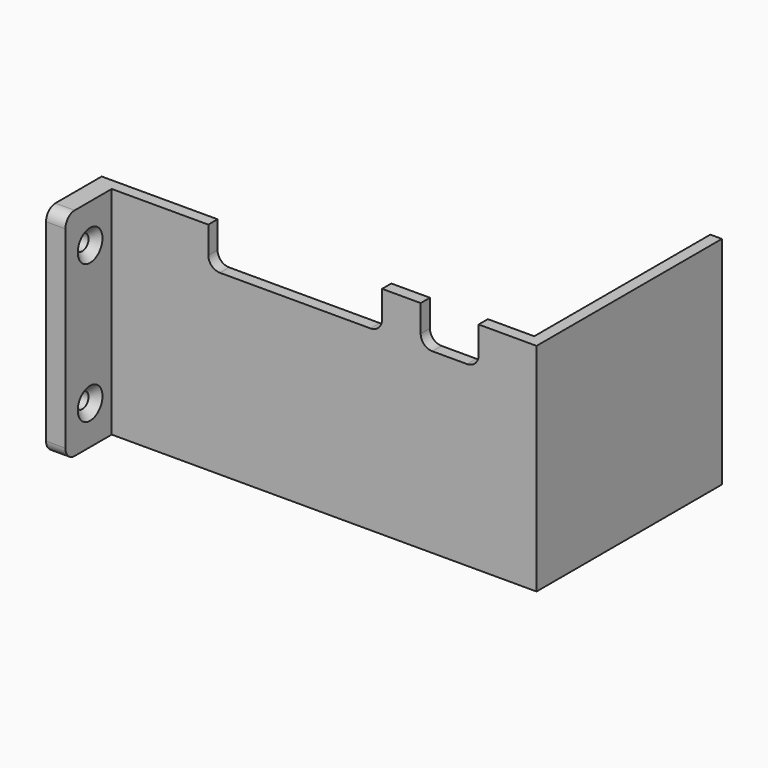
from build123d import *

# Parameters (mm, degrees)
CYLINDER_R            = 2
CYLINDER_DEPTH        = 10
FUSION002_PITCH_ANGLE = 90
FUSION001_PITCH_ANGLE = 90
BOX004_W              = 10
BOX004_H              = 10
BOX004_DEPTH          = 10
BOX003_W              = 70
BOX003_H              = 10
BOX003_DEPTH          = 10
FILLET_R              = 3
BOX001_W              = 112
BOX001_H              = 53
BOX001_DEPTH          = 57
BOX_W                 = 115
BOX_H                 = 56
BOX_DEPTH             = 60
BOX002_W              = 5
BOX002_H              = 56
BOX002_DEPTH          = 15
FILLET001_R           = 3
CUT004_ROLL_ANGLE     = 90


with BuildPart() as cone:
    # Cone → Cone (revolve)
    with BuildSketch(Plane(origin=(0, 0, 10), x_dir=(1, 0, 0), z_dir=(0, -1, 0))):
        Polygon((0, 0), (2, 0), (4, 2), (0, 2), align=None)
    revolve(axis=Axis((0, 0, 10), (0, 0, 1)))


with BuildPart() as cylinder:
    # Cylinder → Cylinder (new body)
    with BuildSketch(Plane.XY):
        Circle(CYLINDER_R)
    extrude(amount=CYLINDER_DEPTH)


with BuildPart() as screw_cutout001:
    # Fusion002 base: copy of Cylinder
    add(cylinder.part)

    # Fusion002: union Cone
    add(cone.part)


with BuildPart() as screw_cutout001_1:
    # Fusion002 pitch: moved
    add(screw_cutout001.part.rotate(Axis((0, 0, 0), (0, 1, 0)), FUSION002_PITCH_ANGLE))


with BuildPart() as screw_cutout001_2:
    # Fusion002 placement: moved
    add(screw_cutout001_1.part.moved(Location((-7, 10, 67))))


with BuildPart() as fusion003:
    # Fusion001 base: copy of Cylinder
    add(cylinder.part)

    # Fusion001: union Cone
    add(cone.part)


with BuildPart() as fusion003_1:
    # Fusion001 pitch: moved
    add(fusion003.part.rotate(Axis((0, 0, 0), (0, 1, 0)), FUSION001_PITCH_ANGLE))


with BuildPart() as fusion003_2:
    # Fusion001 placement: moved
    add(fusion003_1.part.moved(Location((-7, 46, 67))))

    # Fusion003: union screw cutout001
    add(screw_cutout001_2.part)


with BuildPart() as cablecutout001:
    # Box004 → Box004 (new body)
    with BuildSketch(Plane(origin=(75, 46, 51), x_dir=(1, 0, 0), z_dir=(0, 0, 1))):
        with Locations((5, 5)):
            Rectangle(BOX004_W, BOX004_H)
    extrude(amount=BOX004_DEPTH)


with BuildPart() as fillet_body:
    # Box003 → Box003 (new body)
    with BuildSketch(Plane(origin=(30, 46, 51), x_dir=(1, 0, 0), z_dir=(0, 0, 1))):
        with Locations((35, 5)):
            Rectangle(BOX003_W, BOX003_H)
    extrude(amount=BOX003_DEPTH)

    # Cut002: cut cablecutout001
    add(cablecutout001.part, mode=Mode.SUBTRACT)

    # Fillet
    fillet_edges = [fillet_body.edges().sort_by_distance(p)[0] for p in [
        (30, 46, 56),
        (75, 46, 56),
        (100, 46, 56),
        (85, 46, 56),
    ]]
    fillet(fillet_edges, radius=FILLET_R)


with BuildPart() as cube001:
    # Box001 → Box001 (new body)
    with BuildSketch(Plane(origin=(0, 3, 0), x_dir=(1, 0, 0), z_dir=(0, 0, 1))):
        with Locations((56, 26.5)):
            Rectangle(BOX001_W, BOX001_H)
    extrude(amount=BOX001_DEPTH)


with BuildPart() as cut:
    # Box → Box (new body)
    with BuildSketch(Plane.XY):
        with Locations((57.5, 28)):
            Rectangle(BOX_W, BOX_H)
    extrude(amount=BOX_DEPTH)

    # Cut: cut Cube001
    add(cube001.part, mode=Mode.SUBTRACT)


with BuildPart() as cut004:
    # Box002 → Box002 (new body)
    with BuildSketch(Plane.XY.offset(60)):
        with Locations((2.5, 28)):
            Rectangle(BOX002_W, BOX002_H)
    extrude(amount=BOX002_DEPTH)

    # Fillet001
    fillet001_edges = [cut004.edges().sort_by_distance(p)[0] for p in [
        (2.5, 0, 75),
        (2.5, 56, 75),
    ]]
    fillet(fillet001_edges, radius=FILLET001_R)

    # Fusion: union Cut
    add(cut.part)

    # Cut003: cut Fillet body
    add(fillet_body.part, mode=Mode.SUBTRACT)

    # Cut004: cut Fusion003
    add(fusion003_2.part, mode=Mode.SUBTRACT)


with BuildPart() as cut004_1:
    # Cut004 roll: moved
    add(cut004.part.rotate(Axis((0, 0, 0), (1, 0, 0)), CUT004_ROLL_ANGLE))


with BuildPart() as cut004_2:
    # Cut004 placement: moved
    add(cut004_1.part)


solid = cut004_2.part
